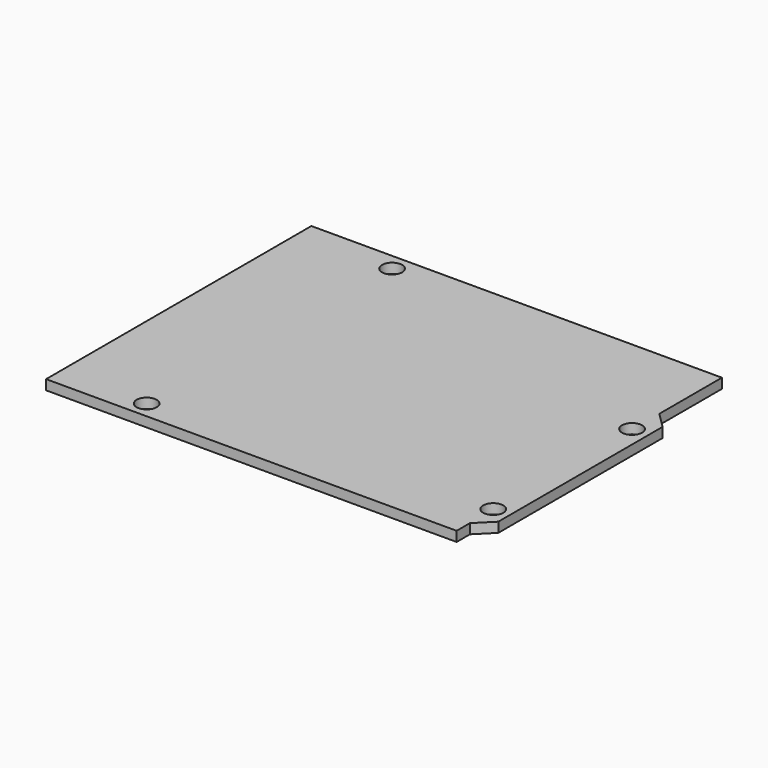
from build123d import *

# Parameters (mm, degrees)
F1_DEPTH = 1.588
F2_R     = 1.6195
F3_DEPTH = 1.589


with BuildPart() as f1:
    # F0 (on Top) → F1 (new body)
    with BuildSketch(Plane.XY):
        Polygon((33.02, 26.67), (-33.02, 26.67), (-33.02, -26.67), (33.02, -26.67), (33.02, -24.003), (35.56, -21.463), (35.56, 11.557), (33.02, 14.097), align=None)
    extrude(amount=F1_DEPTH)

    # F2 (on face) → F3 (cut, through all)
    with BuildSketch(Plane.XY.offset(1.588)):
        with Locations((-17.863, 23.959)):
            Circle(F2_R)
        with Locations((32.925, 8.719)):
            Circle(F2_R)
        with Locations((32.925, -19.189)):
            Circle(F2_R)
        with Locations((-19.01, -23.959)):
            Circle(F2_R)
    extrude(amount=-F3_DEPTH, mode=Mode.SUBTRACT)


solid = f1.part
